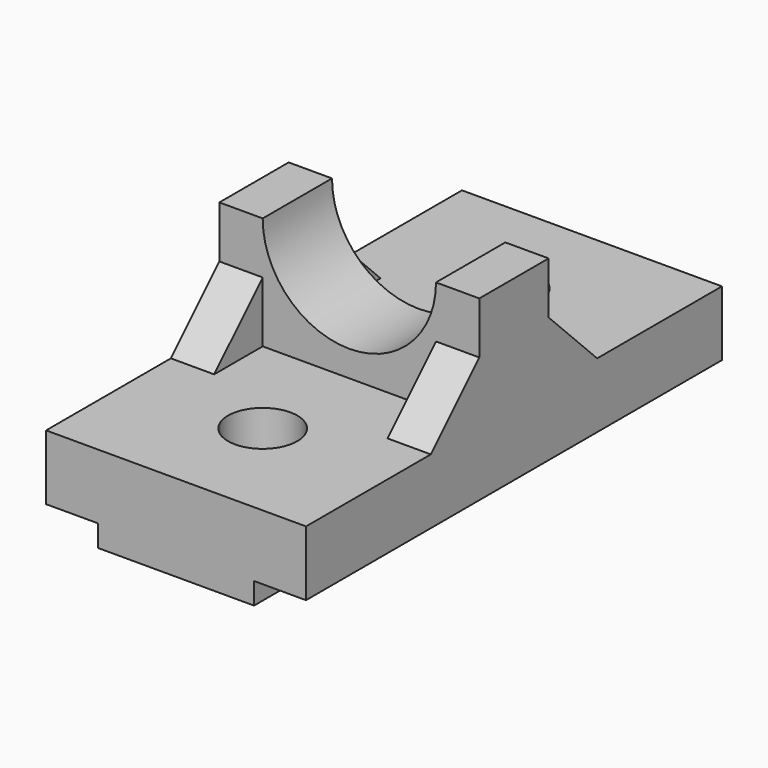
from build123d import *

# Parameters (mm, degrees)
F0_W          = 60
F0_H          = 120
F1_DEPTH      = 20
F2_W          = 12
F2_H          = 5
F3_DEPTH      = 258.3
F5_DEPTH      = 30
F5_DEPTH_BACK = 30
F6_R          = 20
F7_DEPTH      = 64
F7_DEPTH_BACK = 66
F8_R          = 8
F9_DEPTH      = 44.3
F11_DEPTH     = 115
F12_W         = 40
F12_H         = 14
F13_DEPTH     = 57
F14_DEPTH     = 49


with BuildPart() as f1:
    # F0 (on Top) → F1 (new body)
    with BuildSketch(Plane.XY):
        Rectangle(F0_W, F0_H)
    extrude(amount=F1_DEPTH)

    # F2 (on face) → F3 (cut)
    with BuildSketch(Plane.XZ.offset(60)):
        with Locations((-24, 2.5)):
            Rectangle(F2_W, F2_H)
        with Locations((24, 2.5)):
            Rectangle(F2_W, F2_H)
    extrude(amount=-F3_DEPTH, mode=Mode.SUBTRACT)

    # F4 (on Right) → F5 (join, two sides)
    with BuildSketch(Plane.YZ) as f5_sk:
        Polygon((0, 46), (0, 20), (24, 20), (10, 34), (10, 46), align=None)
        Polygon((-24, 20), (0, 20), (0, 46), (-10, 46), (-10, 34), align=None)
    extrude(amount=F5_DEPTH)
    extrude(f5_sk.sketch, amount=-F5_DEPTH_BACK)

    # F6 (on face) → F7 (cut, two sides)
    with BuildSketch(Plane(origin=(0, 10, 0), x_dir=(-1, 0, 0), z_dir=(0, 1, 0))) as f7_sk:
        with Locations((0, 46)):
            Circle(F6_R)
    extrude(amount=-F7_DEPTH, mode=Mode.SUBTRACT)
    extrude(f7_sk.sketch, amount=F7_DEPTH_BACK, mode=Mode.SUBTRACT)

    # F8 (on face) → F9 (cut)
    with BuildSketch(Plane.XY.offset(20)):
        with BuildLine():
            ThreePointArc((0, -43), (5.6568542495, -40.6568542495), (8, -35))
            ThreePointArc((8, -35), (-5.6568542495, -29.3431457505), (0, -43))
        make_face()
        with Locations((0, 35)):
            Circle(F8_R)
    extrude(amount=-F9_DEPTH, mode=Mode.SUBTRACT)

    # F10 (on Top) → F11 (cut)
    with BuildSketch(Plane.XY):
        Polygon((20, -10), (-16, -10), (-20, -10), (-20, -24), (16, -24), (20, -24), align=None)
    extrude(amount=F11_DEPTH, mode=Mode.SUBTRACT)

    # F12 (on Top) → F13 (cut)
    with BuildSketch(Plane.XY):
        with Locations((0, 17)):
            Rectangle(F12_W, F12_H)
    extrude(amount=F13_DEPTH, mode=Mode.SUBTRACT)

    # F14 (add): a face of the model
    f14_faces = [f1.faces().sort_by_distance(p)[0] for p in [
        (0, 24, 10.1923076923),
    ]]
    extrude(f14_faces, amount=F14_DEPTH)


solid = f1.part
